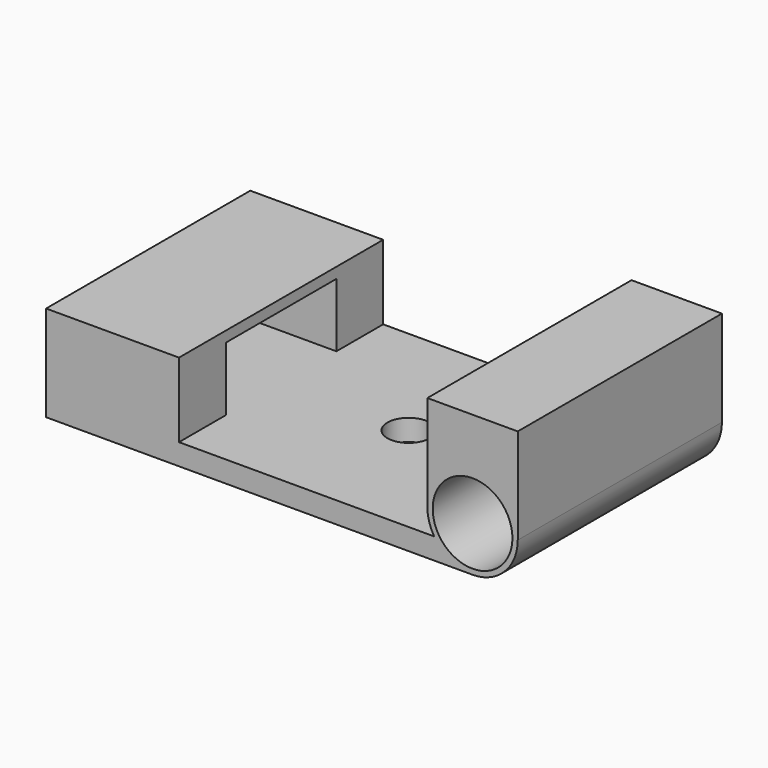
from build123d import *

# Parameters (mm, degrees)
SKETCH_R           = 7.5
PAD_DEPTH          = 24
SKETCH001_R        = 4
POCKET_DEPTH       = 5
POLARPATTERN_COUNT = 2
SKETCH002_W        = 12
SKETCH002_H        = 26
POCKET001_DEPTH    = 25
SKETCH004_R        = 4
POCKET002_DEPTH    = 5


with BuildPart() as part:
    # Sketch → Pad (new body, symmetric)
    with BuildSketch(Plane.XZ):
        with BuildLine():
            Line((-49, 18), (-49, 0))
            Line((-49, 0), (31.211103, 0))
            ThreePointArc((31.211103, 0), (37.22151, 2.489592), (39.711103, 8.5))
            Line((39.711103, 26.499979), (39.711103, 8.5))
            Line((22.711103, 26.499979), (39.711103, 26.499979))
            Line((22.711103, 8.499979), (22.711103, 26.499979))
            ThreePointArc((22.711103, 8.499979), (23.03968, 6.159517), (24, 4))
            Line((-24, 4), (24, 4))
            Line((-24, 18), (-24, 4))
            Line((-49, 18), (-24, 18))
        make_face()
        with Locations((31.211103, 8.5)):
            Circle(SKETCH_R, mode=Mode.SUBTRACT)
    extrude(amount=PAD_DEPTH, both=True)

    # Sketch001 → Pocket (cut)
    with BuildSketch(Plane(origin=(0, 0, 4), x_dir=(-1, 0, 0), z_dir=(0, 0, 1))):
        Circle(SKETCH001_R)
    pocket = extrude(amount=-POCKET_DEPTH, mode=Mode.SUBTRACT)

    # PolarPattern: Pocket ×2 about axis
    polarpattern_axis = Axis((0, 0, 4), (0, 0, 1))
    for i in range(1, POLARPATTERN_COUNT):
        add(pocket.rotate(polarpattern_axis, i * 360 / POLARPATTERN_COUNT), mode=Mode.SUBTRACT)

    # Sketch002 → Pocket001 (cut)
    with BuildSketch(Plane(origin=(-49, 0, 0), x_dir=(0, 0, -1), z_dir=(-1, 0, 0))):
        with Locations((-10, 0)):
            Rectangle(SKETCH002_W, SKETCH002_H)
    extrude(amount=-POCKET001_DEPTH, mode=Mode.SUBTRACT)

    # Sketch004 → Pocket002 (cut)
    with BuildSketch(Plane(origin=(-49, 0, 0), x_dir=(0, 0, -1), z_dir=(-1, 0, 0))):
        with Locations((-10, -18)):
            Circle(SKETCH004_R)
        with Locations((-10, 18)):
            Circle(SKETCH004_R)
    extrude(amount=-POCKET002_DEPTH, mode=Mode.SUBTRACT)


solid = part.part
